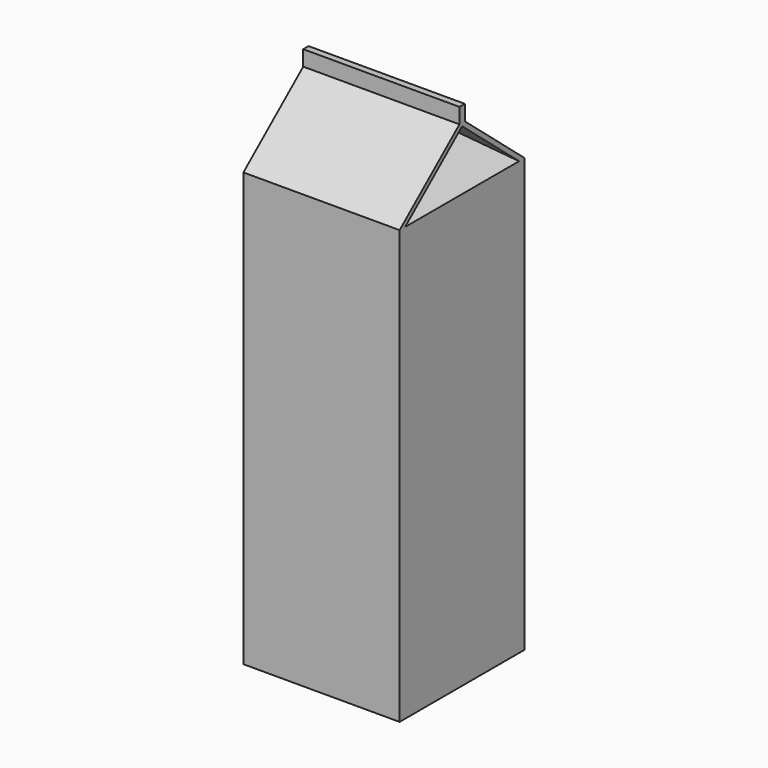
from build123d import *

# Parameters (mm, degrees)
F1_DEPTH = 70


with BuildPart() as f1:
    # F0 (on Right) → F1 (new body)
    with BuildSketch(Plane.YZ):
        Polygon((0, 194), (0, 0), (70, 0), (70, 194), (36.5, 222.109838), (36.5, 229), (33.5, 229), (33.5, 222.109838), align=None)
    extrude(amount=F1_DEPTH)

    # F2 (on face) → F5 section 0
    with BuildSketch(Plane.YZ.offset(70), mode=Mode.PRIVATE) as f5_s0:
        Polygon((35, 220.757673), (3.111448, 194), (66.888552, 194), align=None)
    loft([f5_s0.sketch, Vertex(35, 35, 220.757673)], mode=Mode.SUBTRACT)


solid = f1.part
